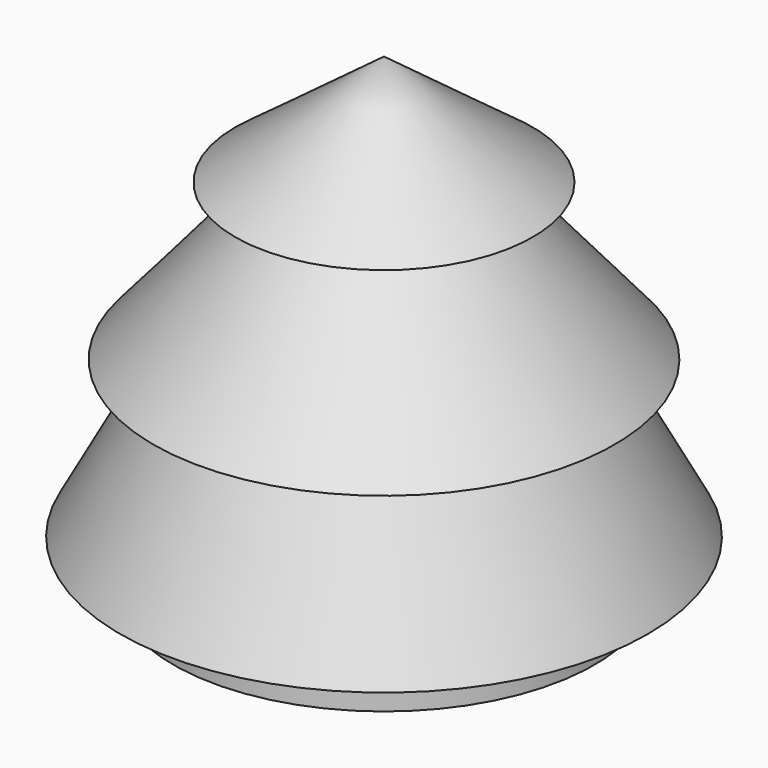
from build123d import *

# Parameters (mm, degrees)
F2_R     = 11.43
F3_DEPTH = 122.936


with BuildPart() as f1:
    # F0 (on Front) → F1 (revolve)
    with BuildSketch(Plane.XZ):
        Polygon((0, -52.355539), (0, 60.947217), (-36.111895, 34.098223), (-23.76136, 34.098223), (-55.980153, -3.758859), (-43.629613, -3.758859), (-64.034849, -41.615937), (-51.147334, -45.106307), (-51.147334, -52.355539), align=None)
    revolve(axis=Axis((0, 0, 4.295839), (0, 0, 1)))

    # F2 (on Top) → F3 (cut)
    with BuildSketch(Plane.XY):
        Circle(F2_R)
    extrude(amount=-F3_DEPTH, mode=Mode.SUBTRACT)


solid = f1.part
